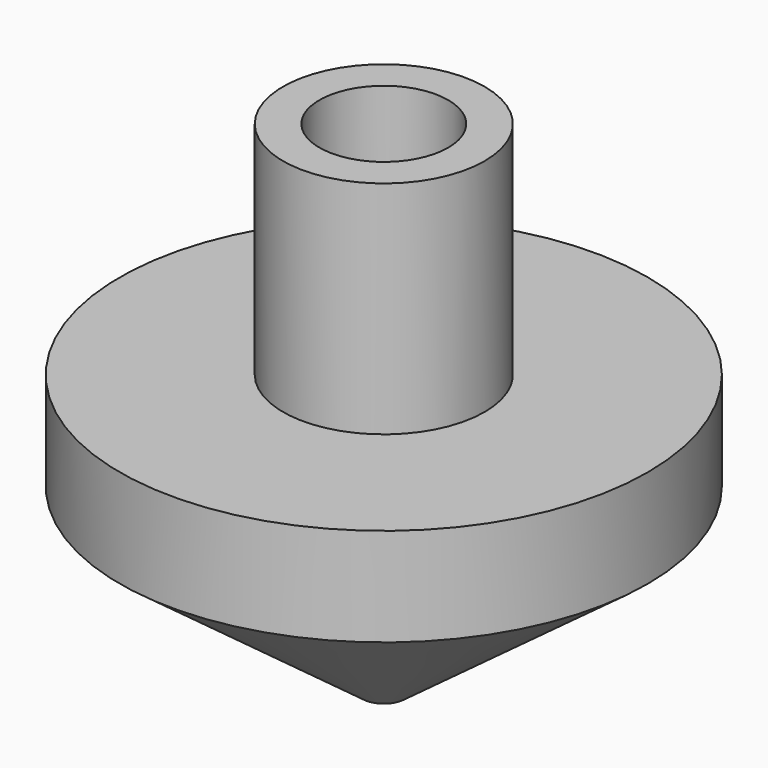
from build123d import *

# Parameters (mm, degrees)
F2_R     = 4.7625
F3_DEPTH = 9.525
F5_R     = 1.5875
F6_DEPTH = 20.32


with BuildPart() as f1:
    # F0 (on Front) → F1 (revolve)
    with BuildSketch(Plane.XZ):
        Polygon((7.453438, 16.332791), (0, 16.332791), (0, -21.767209), (19.520697, -7.259378), (19.520697, 0), (7.453438, 0), align=None)
    revolve(axis=Axis((0, 0, -2.717209), (0, 0, -1)))

    # F2 (on face) → F3 (cut)
    with BuildSketch(Plane.XY.offset(16.332791)):
        Circle(F2_R)
    extrude(amount=-F3_DEPTH, mode=Mode.SUBTRACT)

    # F5 (on offset) → F6 (cut)
    with BuildSketch(Plane.XY.offset(-22.225)):
        Circle(F5_R)
    extrude(amount=F6_DEPTH, mode=Mode.SUBTRACT)


solid = f1.part
